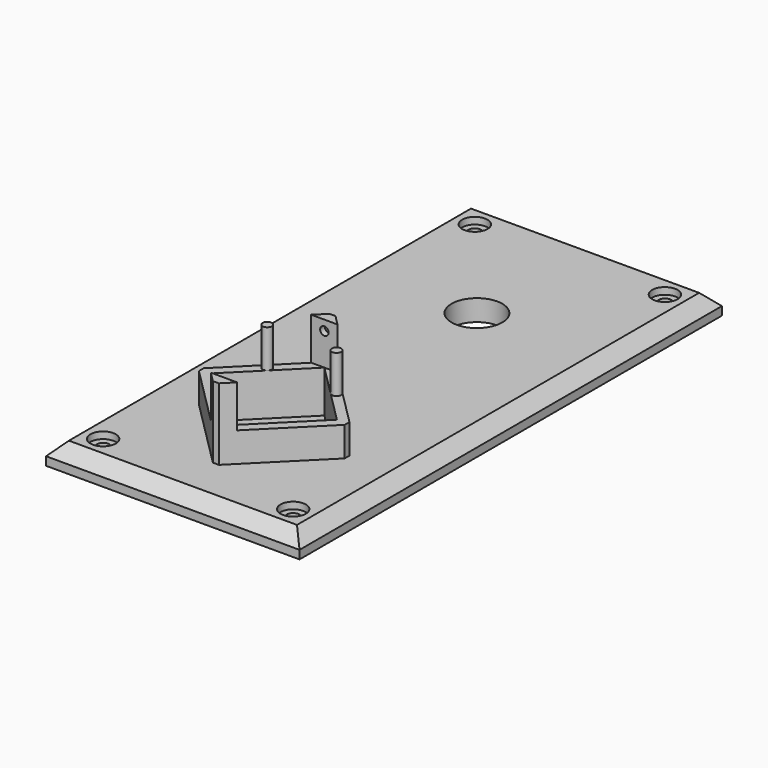
from build123d import *

# Parameters (mm, degrees)
PAD_DEPTH            = 22
POCKET_DEPTH         = 20
POCKET001_DEPTH      = 10
SKETCH003_R          = 1
POCKET002_DEPTH      = 16.25
POCKET002_DEPTH_BACK = -16.25
SKETCH004_R          = 1.1
PAD001_DEPTH         = 9
SKETCH005_R          = 1
POCKET003_DEPTH      = 5
SKETCH006_W          = 60
SKETCH006_H          = 125
PAD002_DEPTH         = 5
CHAMFER_SIZE         = 3
CHAMFER001_SIZE      = 1
SKETCH007_R          = 6
POCKET004_DEPTH      = 5
SKETCH008_R          = 1.5
POCKET005_DEPTH      = 5
SKETCH009_R          = 3
POCKET006_DEPTH      = 1.6


with BuildPart() as part:
    # Sketch → Pad (new body)
    with BuildSketch(Plane.XY):
        Polygon((0, -17.960512), (17.960512, 0), (0, 17.960512), (-17.960512, 0), align=None)
    extrude(amount=PAD_DEPTH)

    # Sketch001 (on Face6 of Pad) → Pocket (cut)
    with BuildSketch(Plane.XY.offset(22)):
        Polygon((0, 14.849242), (-14.849242, 0), (0, -14.849242), (14.849242, 0), align=None)
    extrude(amount=-POCKET_DEPTH, mode=Mode.SUBTRACT)

    # Sketch002 (on Face5 of Pocket) → Pocket001 (cut)
    with BuildSketch(Plane.XY.offset(22)):
        Polygon((-3.11127, 14.849242), (-17.960512, 0), (-3.11127, -14.849242), (0, -14.849242), (-14.849242, 0), (0, 14.849242), align=None)
    pocket001 = extrude(amount=-POCKET001_DEPTH, mode=Mode.SUBTRACT)

    # Mirrored: Pocket001 across YZ
    add(pocket001.mirror(Plane.YZ), mode=Mode.SUBTRACT)

    # Sketch003 → Pocket002 (cut, two sides)
    with BuildSketch(Plane.XZ) as pocket002_sk:
        with Locations((0, 19.622342)):
            Circle(SKETCH003_R)
    extrude(amount=-POCKET002_DEPTH, mode=Mode.SUBTRACT)
    extrude(pocket002_sk.sketch, amount=-POCKET002_DEPTH_BACK, mode=Mode.SUBTRACT)

    # Sketch004 (on Face15 of Pocket002) → Pad001 (join)
    with BuildSketch(Plane.XY.offset(12)):
        with Locations((8.202439, 8.202439)):
            Circle(SKETCH004_R)
    pad001 = extrude(amount=PAD001_DEPTH)

    # Mirrored001: Pad001 across YZ
    add(pad001.mirror(Plane.YZ))

    # Sketch005 (on Face21 of Mirrored001) → Pocket003 (cut)
    with BuildSketch(Plane.XY.offset(2)):
        with Locations((-11, 0)):
            Circle(SKETCH005_R)
        with Locations((11, 0)):
            Circle(SKETCH005_R)
    extrude(amount=-POCKET003_DEPTH, mode=Mode.SUBTRACT)

    # Sketch006 (on Face2 of Pocket003) → Pad002 (join)
    with BuildSketch(Plane(origin=(0, 0, 0), x_dir=(1, 0, 0), z_dir=(0, 0, -1))):
        with Locations((0, -32.5)):
            Rectangle(SKETCH006_W, SKETCH006_H)
        Polygon((0, 17.526509), (-17.526509, 0), (0, -17.526509), (17.526509, 0), align=None, mode=Mode.SUBTRACT)
    extrude(amount=-PAD002_DEPTH)

    # Chamfer
    chamfer_edges = [part.edges().sort_by_distance(p)[0] for p in [
        (30, 32.5, 5),
        (0, 95, 5),
        (-30, 32.5, 5),
        (0, -30, 5),
    ]]
    chamfer(chamfer_edges, length=CHAMFER_SIZE)

    # Chamfer001
    chamfer001_edges = [part.edges().sort_by_distance(p)[0] for p in [
        (17.960512, 0, 8.5),
        (0, 17.960512, 13.5),
        (-17.960512, 0, 8.5),
        (0, -17.960512, 13.5),
    ]]
    chamfer(chamfer001_edges, length=CHAMFER001_SIZE)

    # Sketch007 (on Face1 of Chamfer001) → Pocket004 (cut)
    with BuildSketch(Plane.XY.offset(5)):
        with Locations((0, 60)):
            Circle(SKETCH007_R)
    extrude(amount=-POCKET004_DEPTH, mode=Mode.SUBTRACT)

    # Sketch008 (on Face1 of Pocket004) → Pocket005 (cut)
    with BuildSketch(Plane.XY.offset(5)):
        with Locations((-22.5, 87.5)):
            Circle(SKETCH008_R)
        with Locations((22.5, 87.5)):
            Circle(SKETCH008_R)
        with Locations((22.5, -22.5)):
            Circle(SKETCH008_R)
        with Locations((-22.5, -22.5)):
            Circle(SKETCH008_R)
    extrude(amount=-POCKET005_DEPTH, mode=Mode.SUBTRACT)

    # Sketch009 (on Face1 of Pocket005) → Pocket006 (cut)
    with BuildSketch(Plane.XY.offset(5)):
        with Locations((-22.5, 87.5)):
            Circle(SKETCH009_R)
        with Locations((22.5, 87.5)):
            Circle(SKETCH009_R)
        with Locations((-22.5, -22.5)):
            Circle(SKETCH009_R)
        with Locations((22.5, -22.5)):
            Circle(SKETCH009_R)
    extrude(amount=-POCKET006_DEPTH, mode=Mode.SUBTRACT)


solid = part.part
